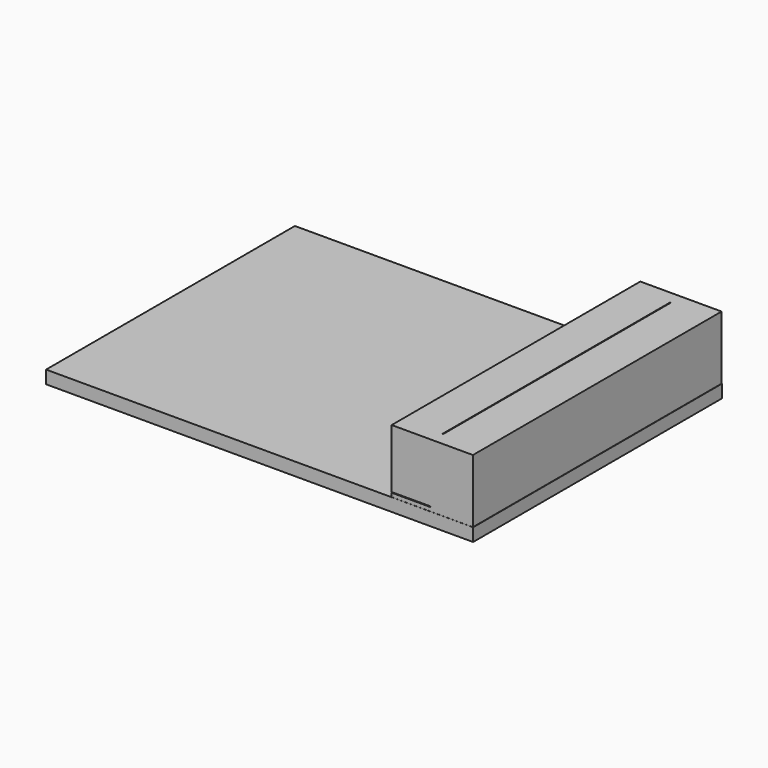
from build123d import *

# Parameters (mm, degrees)
F0_W     = 164.7579842525
F0_H     = 120
F1_DEPTH = 5
F2_W     = 31.3406437635
F2_H     = 119.9177950621
F3_DEPTH = 29.5
F4_W     = 119.9177950621
F4_H     = 0.25
F5_DEPTH = 15
F6_W     = 0.25
F6_H     = 110
F7_DEPTH = 22.76


with BuildPart() as f1:
    # F0 (on Top) → F1 (new body)
    with BuildSketch(Plane.XY):
        Rectangle(F0_W, F0_H)
    extrude(amount=F1_DEPTH)

    # F2 (on Top) → F3 (join)
    with BuildSketch(Plane.XY):
        with Locations((66.5988624096, 0)):
            Rectangle(F2_W, F2_H)
    extrude(amount=F3_DEPTH)

    # F4 (on face) → F5 (cut)
    with BuildSketch(Plane(origin=(50.9285405278, 0, 0), x_dir=(0, -1, 0), z_dir=(-1, 0, 0))):
        with Locations((0, 6.625)):
            Rectangle(F4_W, F4_H)
    extrude(amount=-F5_DEPTH, mode=Mode.SUBTRACT)

    # F6 (on face) → F7 (cut)
    with BuildSketch(Plane.XY.offset(29.5)):
        with Locations((66.5988624096, 0)):
            Rectangle(F6_W, F6_H)
    extrude(amount=-F7_DEPTH, mode=Mode.SUBTRACT)


solid = f1.part
